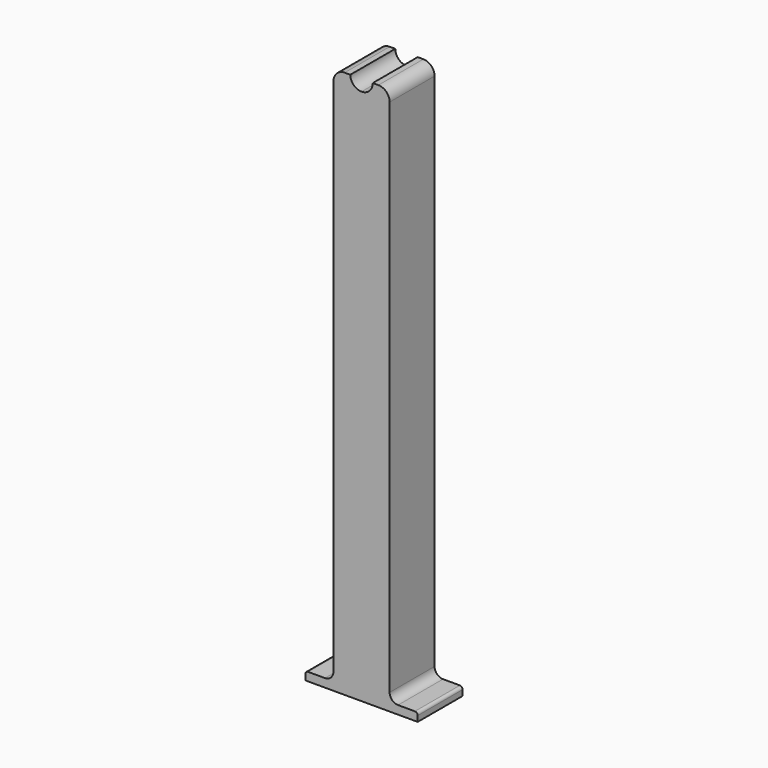
from build123d import *

# Parameters (mm, degrees)
F1_DEPTH = 20


with BuildPart() as f1:
    # F0 (on Front) → F1 (new body)
    with BuildSketch(Plane.XZ):
        with BuildLine():
            Line((-20, 0), (0, 0))
            Line((0, 0), (0, 191))
            ThreePointArc((0, 191), (-2.828427, 192.171573), (-4, 195))
            Line((-4, 195), (-6, 195))
            ThreePointArc((-6, 195), (-8.828427, 193.828427), (-10, 191))
            Line((-10, 191), (-10, 6))
            ThreePointArc((-10, 6), (-10.87868, 3.87868), (-13, 3))
            Line((-13, 3), (-19, 3))
            ThreePointArc((-19, 3), (-19.707107, 2.707107), (-20, 2))
            Line((-20, 2), (-20, 0))
        make_face()
    extrude(amount=F1_DEPTH)

    # F2: F1 across face


with BuildPart() as f1_1:
    add(f1.part)
    add(f1.part.mirror(Plane(origin=(0, -10, 95.5), x_dir=(0, 1, 0), z_dir=(1, 0, 0))))


solid = f1_1.part
